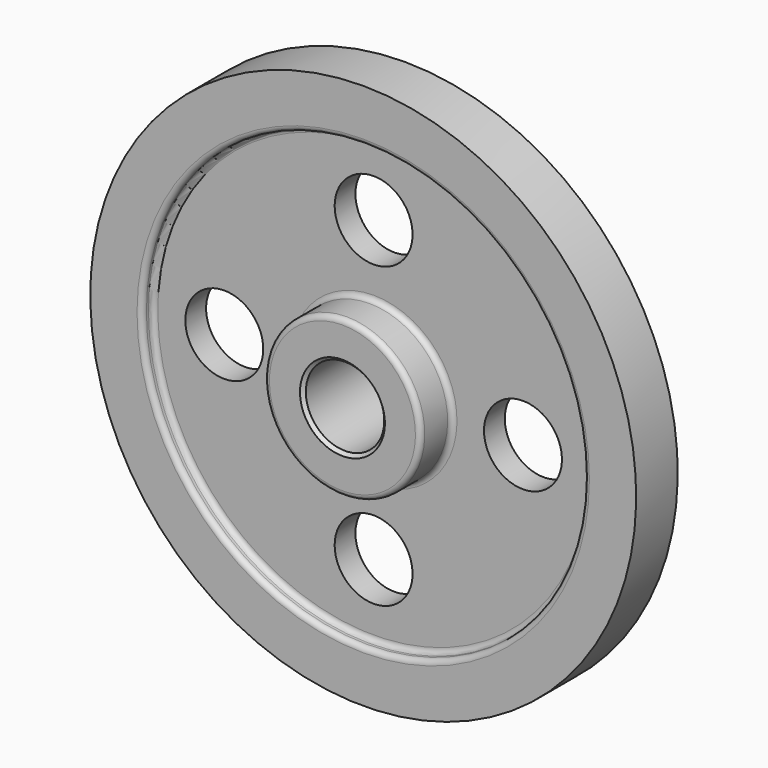
from build123d import *

# Parameters (mm, degrees)
F2_R     = 2.54
F3_SIZE  = 1.5875
F4_R     = 19.05
F5_DEPTH = 25.4


with BuildPart() as f1:
    # F0 (on Right) → F1 (revolve)
    with BuildSketch(Plane.YZ):
        Polygon((0, 19.177), (25.4, 19.177), (25.4, 38.227), (6.35, 38.227), (6.35, 108.077), (12.7, 108.077), (12.7, 133.477), (-12.7, 133.477), (-12.7, 108.077), (-6.35, 108.077), (-6.35, 38.227), (-25.4, 38.227), (-25.4, 19.177), align=None)
    revolve(axis=Axis((0, 38.023658, 0), (0, 1, 0)))

    # F2
    f2_edges = [f1.edges().sort_by_distance(p)[0] for p in [
        (0, 6.35, -38.227),
        (0, 25.4, -38.227),
        (0, 6.35, -108.077),
        (0, 12.7, -108.077),
        (0, -6.35, -38.227),
        (0, -25.4, -38.227),
        (0, -6.35, -108.077),
        (0, -12.7, -108.077),
    ]]
    fillet(f2_edges, radius=F2_R)

    # F3
    f3_edges = [f1.edges().sort_by_distance(p)[0] for p in [
        (0, -25.4, -19.177),
        (0, 25.4, -19.177),
    ]]
    chamfer(f3_edges, length=F3_SIZE)

    # F4 (on face) → F5 (cut)
    with BuildSketch(Plane(origin=(0, 6.35, 0), x_dir=(-1, 0, 0), z_dir=(0, 1, 0))):
        with BuildLine():
            ThreePointArc((92.075, 0), (73.025, 19.05), (53.975, 0))
            ThreePointArc((53.975, 0), (73.025, -19.05), (92.075, 0))
        make_face()
        with Locations((0, -73.025)):
            Circle(F4_R)
        with Locations((0, 73.025)):
            Circle(F4_R)
        with Locations((-73.025, 0)):
            Circle(F4_R)
    extrude(amount=-F5_DEPTH, mode=Mode.SUBTRACT)


solid = f1.part
